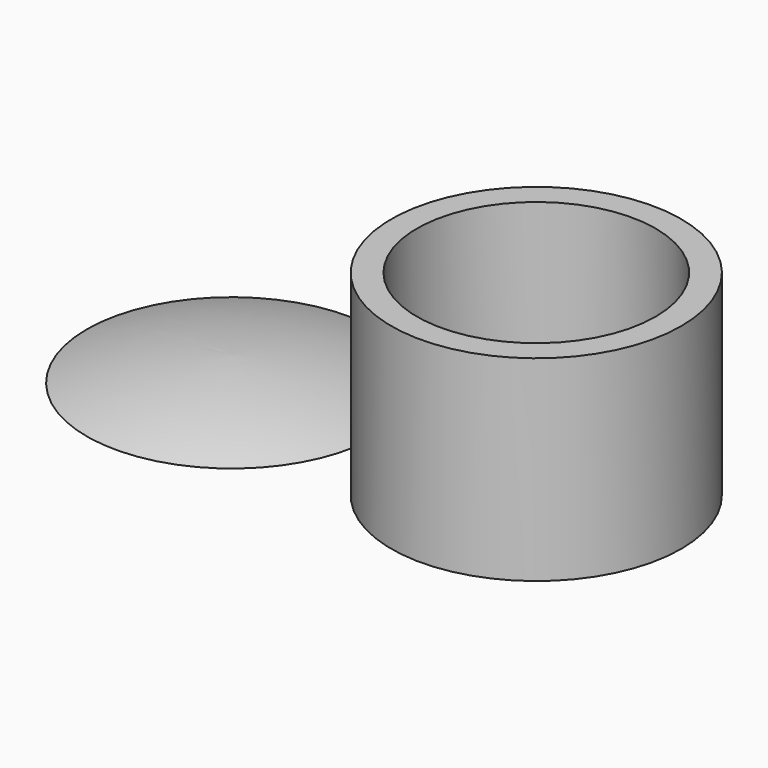
from build123d import *

# Parameters (mm, degrees)
F0_R     = 17
F1_DEPTH = 23
F2_R     = 14
F3_DEPTH = 15
F5_DEPTH = 4.2
F6_R     = 2.5
F7_DEPTH = 25


with BuildPart() as f1:
    # F0 (on Top) → F1 (new body)
    with BuildSketch(Plane.XY):
        Circle(F0_R)
    extrude(amount=F1_DEPTH)

    # F2 (on face) → F3 (cut)
    with BuildSketch(Plane.XY.offset(23)):
        Circle(F2_R)
    extrude(amount=-F3_DEPTH, mode=Mode.SUBTRACT)

    # F4 (on face) → F5 (cut)
    with BuildSketch(Plane.XY.offset(8)):
        Polygon((3.178705, -3.585968), (4.694892, 0.959855), (1.516187, 4.545823), (-3.178705, 3.585968), (-4.694892, -0.959855), (-1.516187, -4.545823), align=None)
    extrude(amount=-F5_DEPTH, mode=Mode.SUBTRACT)

    # F6 (on face) → F7 (cut)
    with BuildSketch(Plane.XY.offset(3.8)):
        Circle(F6_R)
    extrude(amount=-F7_DEPTH, mode=Mode.SUBTRACT)


with BuildPart() as f9:
    # F8 (on Front) → F9 (revolve)
    with BuildSketch(Plane.XZ):
        with BuildLine():
            Line((-52.718792, 0), (-35.718792, 0))
            Line((-35.718792, 0), (-35.718792, 2.874488))
            ThreePointArc((-35.718792, 2.874488), (-44.327341, 2.079211), (-52.718792, 0))
        make_face()
    revolve(axis=Axis((-35.718792, 0, 9.893033), (0, 0, 1)))


solid = Compound([f1.part, f9.part])
